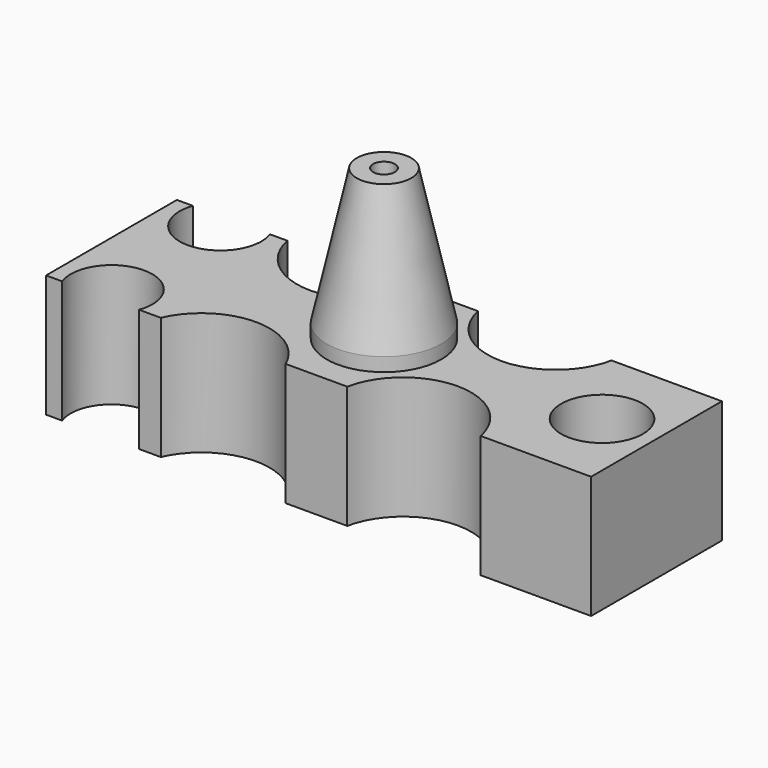
from build123d import *

# Parameters (mm, degrees)
CYLINDER119_R           = 1.5
CYLINDER119_DEPTH       = 8
CYLINDER121_R           = 2.5
CYLINDER121_DEPTH       = 8
CYLINDER122_R           = 2.5
CYLINDER122_DEPTH       = 8
CYLINDER123_R           = 2.5
CYLINDER123_DEPTH       = 8
CYLINDER124_R           = 2.5
CYLINDER124_DEPTH       = 8
CYLINDER126_R           = 2.1
CYLINDER126_DEPTH       = 5
CYLINDER118_R           = 1.5
CYLINDER118_DEPTH       = 8
CYLINDER128_R           = 0.4
CYLINDER128_DEPTH       = 9
CYLINDER128_PITCH_ANGLE = 90
BOX023_W                = 3
BOX023_H                = 6
BOX023_DEPTH            = 4.5
CYLINDER127_R           = 1.5
CYLINDER127_DEPTH       = 8
CYLINDER120_R           = 1.5
CYLINDER120_DEPTH       = 8
BOX021_W                = 20
BOX021_H                = 6
BOX021_DEPTH            = 4.5
CYLINDER129_R           = 0.4
CYLINDER129_DEPTH       = 10
CYLINDER130_R           = 2.1
CYLINDER130_DEPTH       = 2


with BuildPart() as bowtiemount1:
    # Cylinder119 → Cylinder119 (new body)
    with BuildSketch(Plane(origin=(114, 151, 63), x_dir=(1, 0, 0), z_dir=(0, 0, 1))):
        Circle(CYLINDER119_R)
    extrude(amount=CYLINDER119_DEPTH)


with BuildPart() as bowtiecut1:
    # Cylinder121 → Cylinder121 (new body)
    with BuildSketch(Plane(origin=(125.5, 145, 64), x_dir=(1, 0, 0), z_dir=(0, 0, 1))):
        Circle(CYLINDER121_R)
    extrude(amount=CYLINDER121_DEPTH)


with BuildPart() as bowtiecut2:
    # Cylinder122 → Cylinder122 (new body)
    with BuildSketch(Plane(origin=(125.5, 152, 64), x_dir=(1, 0, 0), z_dir=(0, 0, 1))):
        Circle(CYLINDER122_R)
    extrude(amount=CYLINDER122_DEPTH)


with BuildPart() as bowtiecut3:
    # Cylinder123 → Cylinder123 (new body)
    with BuildSketch(Plane(origin=(118.5, 152, 64), x_dir=(1, 0, 0), z_dir=(0, 0, 1))):
        Circle(CYLINDER123_R)
    extrude(amount=CYLINDER123_DEPTH)


with BuildPart() as bowtiecut4:
    # Cylinder124 → Cylinder124 (new body)
    with BuildSketch(Plane(origin=(118.5, 144.5, 64), x_dir=(1, 0, 0), z_dir=(0, 0, 1))):
        Circle(CYLINDER124_R)
    extrude(amount=CYLINDER124_DEPTH)


with BuildPart() as bowtienozzlecut:
    # Cylinder126 → Cylinder126 (new body)
    with BuildSketch(Plane(origin=(122, 148.5, 68.5), x_dir=(1, 0, 0), z_dir=(0, 0, 1))):
        Circle(CYLINDER126_R)
    extrude(amount=CYLINDER126_DEPTH)


with BuildPart() as bowtiecruciblehole:
    # Cylinder118 → Cylinder118 (new body)
    with BuildSketch(Plane(origin=(122, 148.5, 66), x_dir=(1, 0, 0), z_dir=(0, 0, 1))):
        Circle(CYLINDER118_R)
    extrude(amount=CYLINDER118_DEPTH)


with BuildPart() as bowtieinjector:
    # Cylinder128 → Cylinder128 (new body)
    with BuildSketch(Plane.XY):
        Circle(CYLINDER128_R)
    extrude(amount=CYLINDER128_DEPTH)


with BuildPart() as bowtieinjector_1:
    # Cylinder128 pitch: moved
    add(bowtieinjector.part.rotate(Axis((0, 0, 0), (0, 1, 0)), CYLINDER128_PITCH_ANGLE))


with BuildPart() as bowtieinjector_2:
    # Cylinder128 placement: moved
    add(bowtieinjector_1.part.moved(Location((112, 148.5, 68))))


with BuildPart() as bowtiecut5:
    # Box023 → Box023 (new body)
    with BuildSketch(Plane(origin=(125, 145.5, 73), x_dir=(1, 0, 0), z_dir=(0, 0, 1))):
        with Locations((1.5, 3)):
            Rectangle(BOX023_W, BOX023_H)
    extrude(amount=BOX023_DEPTH)


with BuildPart() as bowtiemount007:
    # Cylinder127 → Cylinder127 (new body)
    with BuildSketch(Plane(origin=(114, 146, 63), x_dir=(1, 0, 0), z_dir=(0, 0, 1))):
        Circle(CYLINDER127_R)
    extrude(amount=CYLINDER127_DEPTH)


with BuildPart() as fusion050:
    # Cylinder120 → Cylinder120 (new body)
    with BuildSketch(Plane(origin=(130, 148.5, 63), x_dir=(1, 0, 0), z_dir=(0, 0, 1))):
        Circle(CYLINDER120_R)
    extrude(amount=CYLINDER120_DEPTH)

    # Fusion050: union BowTieMount1, BowTieCut1, BowTieCut2, BowTieCut3, BowTieCut4, BowTieNozzleCut, BowTieCrucibleHole, BowTieInjector, BowTieCut5, BowTieMount007
    add(bowtiemount1.part)
    add(bowtiecut1.part)
    add(bowtiecut2.part)
    add(bowtiecut3.part)
    add(bowtiecut4.part)
    add(bowtienozzlecut.part)
    add(bowtiecruciblehole.part)
    add(bowtieinjector_2.part)
    add(bowtiecut5.part)
    add(bowtiemount007.part)


with BuildPart() as bowtie:
    # Box021 → Box021 (new body)
    with BuildSketch(Plane(origin=(112, 145.5, 65), x_dir=(1, 0, 0), z_dir=(0, 0, 1))):
        with Locations((10, 3)):
            Rectangle(BOX021_W, BOX021_H)
    extrude(amount=BOX021_DEPTH)

    # Cut015: cut Fusion050
    add(fusion050.part, mode=Mode.SUBTRACT)


with BuildPart() as bowtie_1:
    # Cut015 placement: moved
    add(bowtie.part.moved(Location((-16.5, 0, 0))))


with BuildPart() as bowtienozzle001:
    # Cylinder129 → Cylinder129 (new body)
    with BuildSketch(Plane(origin=(122, 148.5, 68), x_dir=(1, 0, 0), z_dir=(0, 0, 1))):
        Circle(CYLINDER129_R)
    extrude(amount=CYLINDER129_DEPTH)


with BuildPart() as cone:
    # Cone → Cone (revolve)
    with BuildSketch(Plane(origin=(122, 148.5, 70), x_dir=(1, 0, 0), z_dir=(0, -1, 0))):
        Polygon((0, 0), (2.1, 0), (1, 5), (0, 5), align=None)
    revolve(axis=Axis((122, 148.5, 70), (0, 0, 1)))


with BuildPart() as fusion055:
    # Cylinder130 → Cylinder130 (new body)
    with BuildSketch(Plane(origin=(122, 148.5, 68), x_dir=(1, 0, 0), z_dir=(0, 0, 1))):
        Circle(CYLINDER130_R)
    extrude(amount=CYLINDER130_DEPTH)

    # Fusion051: union Cone
    add(cone.part)

    # Cut016: cut BowTieNozzle001
    add(bowtienozzle001.part, mode=Mode.SUBTRACT)


with BuildPart() as fusion055_1:
    # Cut016 placement: moved
    add(fusion055.part.moved(Location((-16.5, 0, 0))))

    # Fusion055: union BowTie
    add(bowtie_1.part)


solid = fusion055_1.part
